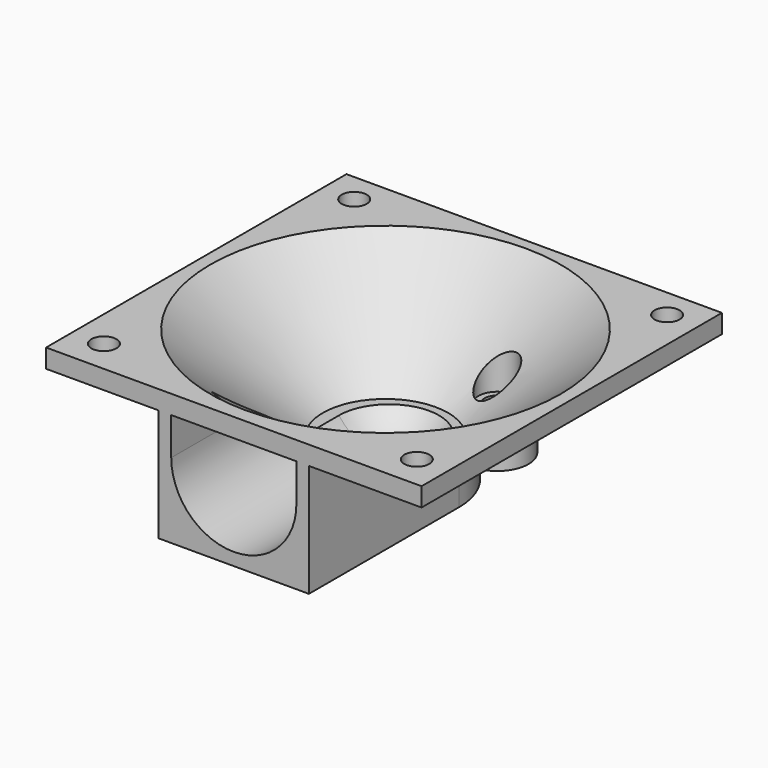
from build123d import *

# Parameters (mm, degrees)
CYLINDER002003_R     = 2
CYLINDER002003_DEPTH = 30
CYLINDER002004_R     = 3
CYLINDER002004_DEPTH = 11
CYLINDER_W           = 10
CYLINDER_H           = 31
CYLINDER_ANGLE       = 180
CYLINDER_ROLL_ANGLE  = -90
CYLINDER002006_R     = 10
CYLINDER002006_DEPTH = 6
SPHERE001_ROLL_ANGLE = 1
BOX008_W             = 20
BOX008_H             = 31
BOX008_DEPTH         = 6
CYLINDER006_R        = 2
CYLINDER006_DEPTH    = 10
CYLINDER008_R        = 2
CYLINDER008_DEPTH    = 10
CYLINDER007_R        = 2
CYLINDER007_DEPTH    = 10
CYLINDER005_R        = 2
CYLINDER005_DEPTH    = 10
CYLINDER001_R        = 12
CYLINDER001_DEPTH    = 12
BOX003_W             = 24
BOX003_H             = 30
BOX003_DEPTH         = 18
BOX_W                = 60
BOX_H                = 60
BOX_DEPTH            = 3
CYLINDER002002_R     = 5
CYLINDER002002_DEPTH = 15


with BuildPart() as obj1:
    # Cylinder002003 → Cylinder002003 (new body)
    with BuildSketch(Plane(origin=(26.5, 44.5, -13), x_dir=(1, 0, 0), z_dir=(0, 0, 1))):
        Circle(CYLINDER002003_R)
    extrude(amount=CYLINDER002003_DEPTH)


with BuildPart() as schnittkegel:
    # Cone003 → Cone003 (revolve)
    with BuildSketch(Plane(origin=(20, 30.3, -5), x_dir=(1, 0, 0), z_dir=(0, -1, 0))):
        Polygon((0, 0), (10, 0), (28, 15), (0, 15), align=None)
    revolve(axis=Axis((20, 30.3, -5), (0, 0, 1)))


with BuildPart() as obj2:
    # Cylinder002004 → Cylinder002004 (new body)
    with BuildSketch(Plane(origin=(26.5, 44.5, -4), x_dir=(1, 0, 0), z_dir=(0, 0, 1))):
        Circle(CYLINDER002004_R)
    extrude(amount=CYLINDER002004_DEPTH)


with BuildPart() as zylinder:
    # Cylinder → Cylinder (revolve)
    with BuildSketch(Plane.XZ):
        with Locations((5, 15.5)):
            Rectangle(CYLINDER_W, CYLINDER_H)
    revolve(axis=Axis((0, 0, 0), (0, 0, 1)), revolution_arc=CYLINDER_ANGLE)


with BuildPart() as zylinder_1:
    # Cylinder roll: moved
    add(zylinder.part.rotate(Axis((0, 0, 0), (1, 0, 0)), CYLINDER_ROLL_ANGLE))


with BuildPart() as zylinder_2:
    # Cylinder placement: moved
    add(zylinder_1.part.moved(Location((20, -11, 1))))


with BuildPart() as zylinder014:
    # Cylinder002006 → Cylinder002006 (new body)
    with BuildSketch(Plane(origin=(20, 20, 1), x_dir=(1, 0, 0), z_dir=(0, 0, 1))):
        Circle(CYLINDER002006_R)
    extrude(amount=CYLINDER002006_DEPTH)


with BuildPart() as kugel001:
    # Sphere001 → Sphere001 (revolve)
    with BuildSketch(Plane.XZ):
        with BuildLine():
            ThreePointArc((0, -10), (10, 0), (0, 10))
            Line((0, 10), (0, -10))
        make_face()
    revolve(axis=Axis((0, 0, 0), (0, 0, 1)))


with BuildPart() as kugel001_1:
    # Sphere001 roll: moved
    add(kugel001.part.rotate(Axis((0, 0, 0), (1, 0, 0)), SPHERE001_ROLL_ANGLE))


with BuildPart() as kugel001_2:
    # Sphere001 placement: moved
    add(kugel001_1.part.moved(Location((20, 20, 1))))


with BuildPart() as obj3:
    # Box008 → Box008 (new body)
    with BuildSketch(Plane(origin=(10, -11, 1), x_dir=(1, 0, 0), z_dir=(0, 0, 1))):
        with Locations((10, 15.5)):
            Rectangle(BOX008_W, BOX008_H)
    extrude(amount=BOX008_DEPTH)

    # Fusion011: union Zylinder, Zylinder014, Kugel001
    add(zylinder_2.part)
    add(zylinder014.part)
    add(kugel001_2.part)


with BuildPart() as obj3_1:
    # Fusion011 placement: moved
    add(obj3.part.moved(Location((0, 11, 0))))


with BuildPart() as zylinder006:
    # Cylinder006 → Cylinder006 (new body)
    with BuildSketch(Plane(origin=(0, 50, 0), x_dir=(1, 0, 0), z_dir=(0, 0, 1))):
        Circle(CYLINDER006_R)
    extrude(amount=CYLINDER006_DEPTH)


with BuildPart() as zylinder008:
    # Cylinder008 → Cylinder008 (new body)
    with BuildSketch(Plane(origin=(50, 50, 0), x_dir=(1, 0, 0), z_dir=(0, 0, 1))):
        Circle(CYLINDER008_R)
    extrude(amount=CYLINDER008_DEPTH)


with BuildPart() as zylinder007:
    # Cylinder007 → Cylinder007 (new body)
    with BuildSketch(Plane(origin=(50, 0, 0), x_dir=(1, 0, 0), z_dir=(0, 0, 1))):
        Circle(CYLINDER007_R)
    extrude(amount=CYLINDER007_DEPTH)


with BuildPart() as obj4:
    # Cylinder005 → Cylinder005 (new body)
    with BuildSketch(Plane.XY):
        Circle(CYLINDER005_R)
    extrude(amount=CYLINDER005_DEPTH)

    # Fusion008: union Zylinder006, Zylinder008, Zylinder007
    add(zylinder006.part)
    add(zylinder008.part)
    add(zylinder007.part)


with BuildPart() as obj4_1:
    # Fusion008 placement: moved
    add(obj4.part.moved(Location((-5, 5.3, 2))))

    # Fusion012: union obj1, SchnittKegel, obj2, obj3
    add(obj1.part)
    add(schnittkegel.part)
    add(obj2.part)
    add(obj3_1.part)


with BuildPart() as zylinder001:
    # Cylinder001 → Cylinder001 (new body)
    with BuildSketch(Plane(origin=(20, 20, -11), x_dir=(1, 0, 0), z_dir=(0, 0, 1))):
        Circle(CYLINDER001_R)
    extrude(amount=CYLINDER001_DEPTH)


with BuildPart() as aussen:
    # Box003 → Box003 (new body)
    with BuildSketch(Plane(origin=(8, -10, -11), x_dir=(1, 0, 0), z_dir=(0, 0, 1))):
        with Locations((12, 15)):
            Rectangle(BOX003_W, BOX003_H)
    extrude(amount=BOX003_DEPTH)

    # Fusion003: union Zylinder001
    add(zylinder001.part)


with BuildPart() as aussen_1:
    # Fusion003 placement: moved
    add(aussen.part.moved(Location((0, 10, 0))))


with BuildPart() as obj5:
    # Box → Box (new body)
    with BuildSketch(Plane(origin=(-10, 0, 7), x_dir=(1, 0, 0), z_dir=(0, 0, 1))):
        with Locations((30, 30)):
            Rectangle(BOX_W, BOX_H)
    extrude(amount=BOX_DEPTH)


with BuildPart() as wall:
    # Cone001 → Cone001 (revolve)
    with BuildSketch(Plane(origin=(20, 30, -5), x_dir=(1, 0, 0), z_dir=(0, -1, 0))):
        Polygon((0, 0), (12, 0), (30, 15), (0, 15), align=None)
    revolve(axis=Axis((20, 30, -5), (0, 0, 1)))

    # Fusion: union obj5
    add(obj5.part)

    # Fusion006: union aussen
    add(aussen_1.part)


with BuildPart() as fanduct:
    # Cylinder002002 → Cylinder002002 (new body)
    with BuildSketch(Plane(origin=(26.5, 44.5, -11), x_dir=(1, 0, 0), z_dir=(0, 0, 1))):
        Circle(CYLINDER002002_R)
    extrude(amount=CYLINDER002002_DEPTH)

    # Fusion013: union Wall
    add(wall.part)

    # Cut: cut obj4
    add(obj4_1.part, mode=Mode.SUBTRACT)


solid = fanduct.part
